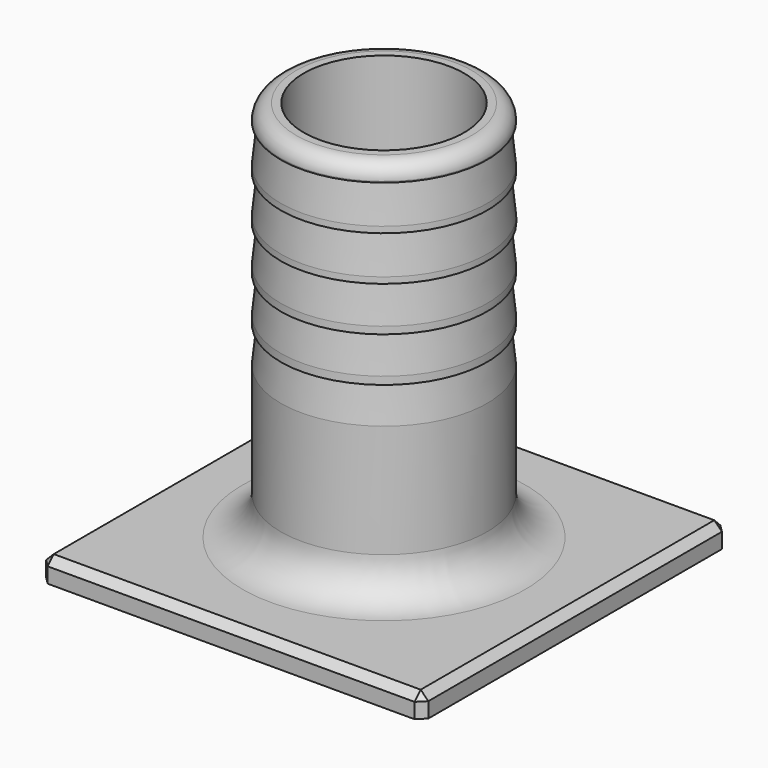
from build123d import *

# Parameters (mm, degrees)
F0_W     = 50
F0_H     = 50
F0_R     = 10.5
F1_DEPTH = 3
F4_R     = 2
F5_SIZE  = 1


with BuildPart() as f1:
    # F0 (on Top) → F1 (new body)
    with BuildSketch(Plane.XY):
        Rectangle(F0_W, F0_H)
        Circle(F0_R, mode=Mode.SUBTRACT)
    extrude(amount=F1_DEPTH)

    # F2 (on Front) → F3 (revolve)
    with BuildSketch(Plane.XZ):
        with BuildLine():
            Line((-10.5, 3), (-10.5, 53))
            Line((-10.5, 53), (-13.5, 53))
            Line((-13.5, 53), (-13.5, 50.842942))
            Line((-13.5, 50.842942), (-13, 50.842942))
            Line((-13, 50.842942), (-13.5, 45.818362))
            Line((-13.5, 45.818362), (-13.506682, 45.019927))
            Line((-13.506682, 45.019927), (-13.006682, 45.019927))
            Line((-13.006682, 45.019927), (-13.506682, 39.995346))
            Line((-13.506682, 39.995346), (-13.513363, 39.196911))
            Line((-13.513363, 39.196911), (-13.013363, 39.196911))
            Line((-13.013363, 39.196911), (-13.5, 34.306619))
            Line((-13.5, 34.306619), (-13.5, 33.373896))
            Line((-13.5, 33.373896), (-13.020045, 33.373896))
            Line((-13.020045, 33.373896), (-13.5, 28.550748))
            Line((-13.5, 28.550748), (-13.5, 27.550881))
            Line((-13.5, 27.550881), (-13.026726, 27.550881))
            Line((-13.026726, 27.550881), (-13.5, 22.794877))
            Line((-13.5, 22.794877), (-13.5, 8))
            ThreePointArc((-13.5, 8), (-14.964466, 4.464466), (-18.5, 3))
            Line((-18.5, 3), (-10.5, 3))
        make_face()
    revolve(axis=Axis((0, 0, 16.531735), (0, 0, -1)))

    # F4
    f4_edges = [f1.edges().sort_by_distance(p)[0] for p in [
        (13.5, 0, 53),
    ]]
    fillet(f4_edges, radius=F4_R)

    # F5
    f5_edges = [f1.edges().sort_by_distance(p)[0] for p in [
        (-25, 0, 3),
        (0, -25, 3),
        (25, 0, 3),
        (0, 25, 3),
        (-25, -25, 1.5),
        (25, -25, 1.5),
        (25, 25, 1.5),
        (-25, 25, 1.5),
    ]]
    chamfer(f5_edges, length=F5_SIZE)


solid = f1.part
